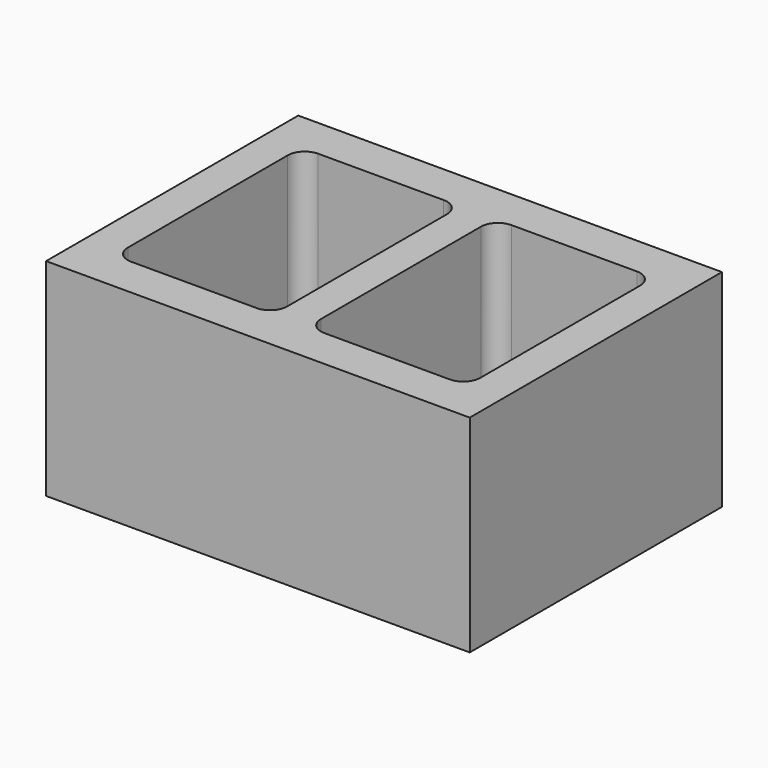
from build123d import *

# Parameters (mm, degrees)
F0_W     = 396.875
F0_H     = 295.275
F1_DEPTH = 96.8375


with BuildPart() as f1:
    # F0 (on Top) → F1 (new body, symmetric)
    with BuildSketch(Plane.XY):
        Rectangle(F0_W, F0_H)
        with BuildLine():
            ThreePointArc((-165.1, 93.6625), (-160.45032, 104.88782), (-149.225, 109.5375))
            Line((-149.225, 109.5375), (-31.75, 109.5375))
            ThreePointArc((-31.75, 109.5375), (-20.52468, 104.88782), (-15.875, 93.6625))
            Line((-15.875, 93.6625), (-15.875, 0))
            Line((-15.875, 0), (-15.875, -93.6625))
            ThreePointArc((-15.875, -93.6625), (-20.52468, -104.88782), (-31.75, -109.5375))
            Line((-31.75, -109.5375), (-149.225, -109.5375))
            ThreePointArc((-149.225, -109.5375), (-160.45032, -104.88782), (-165.1, -93.6625))
            Line((-165.1, -93.6625), (-165.1, 93.6625))
        make_face(mode=Mode.SUBTRACT)
        with BuildLine():
            Line((15.875, -93.6625), (15.875, 0))
            Line((15.875, 0), (15.875, 93.6625))
            ThreePointArc((15.875, 93.6625), (20.52468, 104.88782), (31.75, 109.5375))
            Line((31.75, 109.5375), (149.225, 109.5375))
            ThreePointArc((149.225, 109.5375), (160.45032, 104.88782), (165.1, 93.6625))
            Line((165.1, 93.6625), (165.1, -93.6625))
            ThreePointArc((165.1, -93.6625), (160.45032, -104.88782), (149.225, -109.5375))
            Line((149.225, -109.5375), (31.75, -109.5375))
            ThreePointArc((31.75, -109.5375), (20.52468, -104.88782), (15.875, -93.6625))
        make_face(mode=Mode.SUBTRACT)
    extrude(amount=F1_DEPTH, both=True)


solid = f1.part
